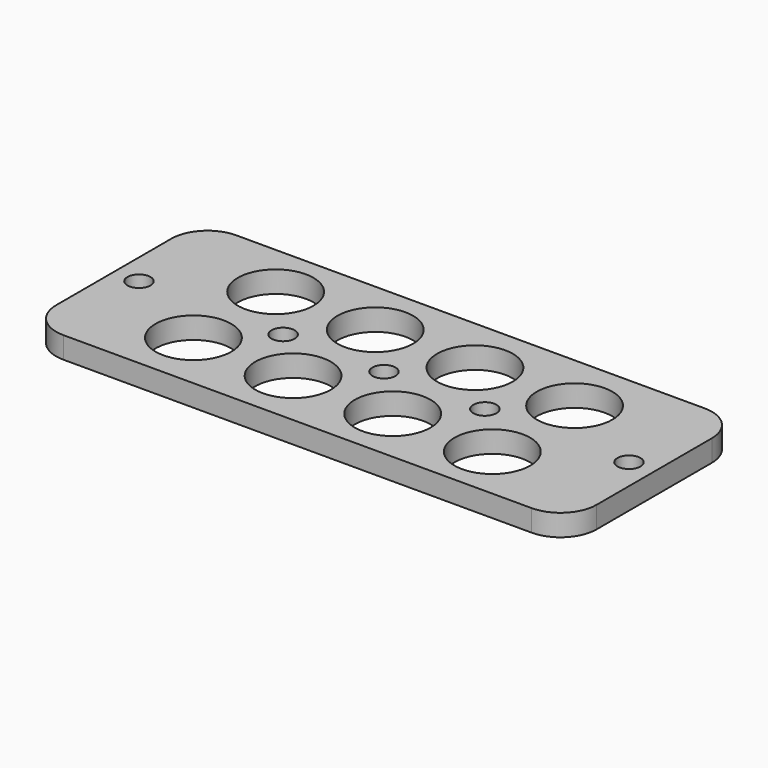
from build123d import *

# Parameters (mm, degrees)
SKETCH_W   = 75
SKETCH_H   = 30
SKETCH_R   = 5.25
SKETCH_R_2 = 1.6
PAD_DEPTH  = 3
FILLET_R   = 5


with BuildPart() as part:
    # Sketch → Pad (new body)
    with BuildSketch(Plane.XY):
        with Locations((37.5, 15)):
            Rectangle(SKETCH_W, SKETCH_H)
        with Locations((16.609054, 22.319043)):
            Circle(SKETCH_R, mode=Mode.SUBTRACT)
        with Locations((37.5, 15)):
            Circle(SKETCH_R_2, mode=Mode.SUBTRACT)
        with Locations((3.5, 15)):
            Circle(SKETCH_R_2, mode=Mode.SUBTRACT)
        with Locations((71.5, 15)):
            Circle(SKETCH_R_2, mode=Mode.SUBTRACT)
        with Locations((23.5, 15)):
            Circle(SKETCH_R_2, mode=Mode.SUBTRACT)
        with Locations((51.5, 15)):
            Circle(SKETCH_R_2, mode=Mode.SUBTRACT)
        with Locations((30.60743, 22.105806)):
            Circle(SKETCH_R, mode=Mode.SUBTRACT)
        with Locations((44.605806, 21.89257)):
            Circle(SKETCH_R, mode=Mode.SUBTRACT)
        with Locations((58.604182, 21.679333)):
            Circle(SKETCH_R, mode=Mode.SUBTRACT)
        with Locations((16.395818, 8.320667)):
            Circle(SKETCH_R, mode=Mode.SUBTRACT)
        with Locations((30.394194, 8.10743)):
            Circle(SKETCH_R, mode=Mode.SUBTRACT)
        with Locations((44.39257, 7.894194)):
            Circle(SKETCH_R, mode=Mode.SUBTRACT)
        with Locations((58.390946, 7.680957)):
            Circle(SKETCH_R, mode=Mode.SUBTRACT)
    extrude(amount=PAD_DEPTH)

    # Fillet
    fillet_edges = [part.edges().sort_by_distance(p)[0] for p in [
        (0, 0, 1.5),
        (75, 0, 1.5),
        (75, 30, 1.5),
        (0, 30, 1.5),
    ]]
    fillet(fillet_edges, radius=FILLET_R)


solid = part.part
